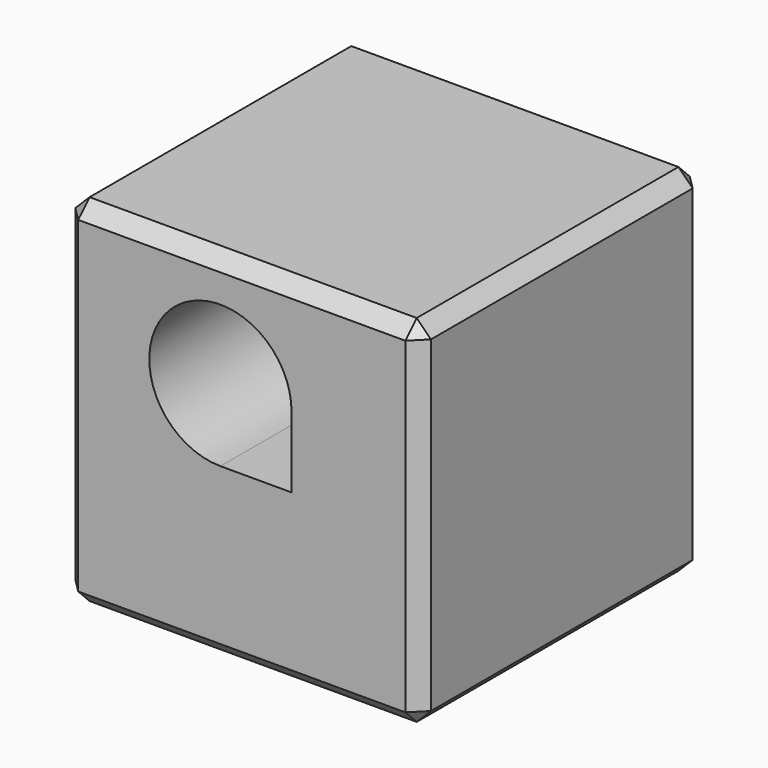
from build123d import *

# Parameters (mm, degrees)
F0_W     = 127
F0_H     = 127
F1_DEPTH = 127
F2_SIZE  = 5.08
F4_DEPTH = 127


with BuildPart() as f1:
    # F0 (on Front) → F1 (new body)
    with BuildSketch(Plane.XZ):
        with Locations((-0.227161, 13.688557)):
            Rectangle(F0_W, F0_H)
    extrude(amount=F1_DEPTH)

    # F2
    f2_edges = [f1.edges().sort_by_distance(p)[0] for p in [
        (-0.227161, -127, 77.188557),
        (63.272839, -63.5, 77.188557),
        (63.272839, -63.5, -49.811443),
        (-0.227161, -127, -49.811443),
        (-63.727161, -63.5, -49.811443),
        (-0.227161, 0, -49.811443),
        (-63.727161, -63.5, 77.188557),
        (-0.227161, 0, 77.188557),
        (-63.727161, 0, 13.688557),
        (63.272839, 0, 13.688557),
        (-63.727161, -127, 13.688557),
        (63.272839, -127, 13.688557),
    ]]
    chamfer(f2_edges, length=F2_SIZE)

    # F3 (on face) → F4 (cut)
    with BuildSketch(Plane.XZ.offset(127)):
        with BuildLine():
            Line((17.552839, 11.196052), (17.552839, 36.596052))
            ThreePointArc((17.552839, 36.596052), (-25.807673, 54.556565), (-7.847161, 11.196052))
            Line((-7.847161, 11.196052), (17.552839, 11.196052))
        make_face()
    extrude(amount=-F4_DEPTH, mode=Mode.SUBTRACT)


solid = f1.part
